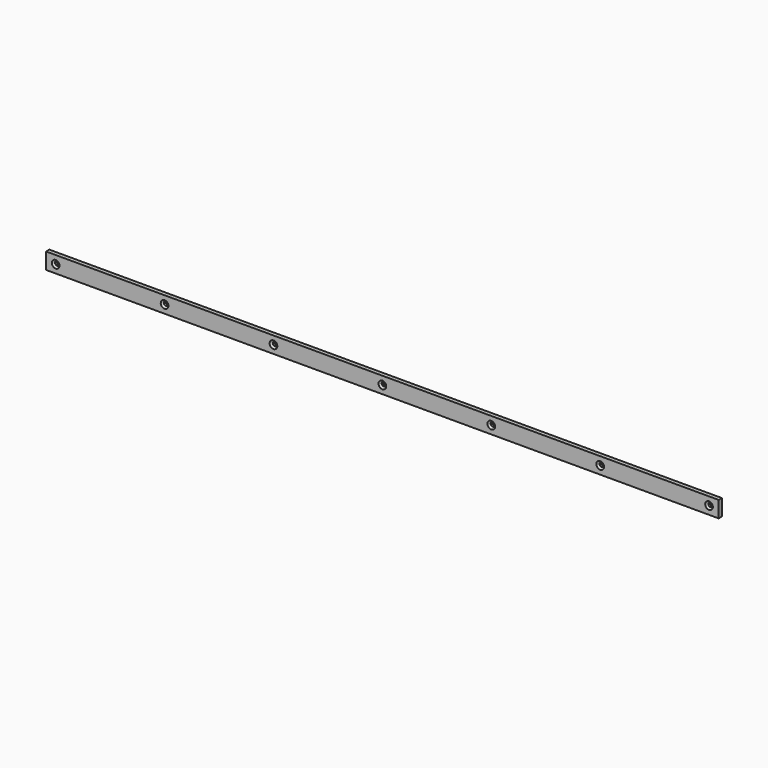
from build123d import *

# Parameters (mm, degrees)
F0_W     = 1050
F0_H     = 25.4
F0_R     = 3.25
F1_DEPTH = 6.35
F2_SIZE  = 2.75
F3_SIZE  = 0.5


with BuildPart() as f1:
    # F0 (on Front) → F1 (new body)
    with BuildSketch(Plane.XZ):
        Rectangle(F0_W, F0_H)
        with Locations((-510, 0)):
            Circle(F0_R, mode=Mode.SUBTRACT)
        with Locations((-340, 0)):
            Circle(F0_R, mode=Mode.SUBTRACT)
        with Locations((-170, 0)):
            Circle(F0_R, mode=Mode.SUBTRACT)
        Circle(F0_R, mode=Mode.SUBTRACT)
        with Locations((170, 0)):
            Circle(F0_R, mode=Mode.SUBTRACT)
        with Locations((340, 0)):
            Circle(F0_R, mode=Mode.SUBTRACT)
        with Locations((510, 0)):
            Circle(F0_R, mode=Mode.SUBTRACT)
    extrude(amount=F1_DEPTH)

    # F2
    f2_edges = [f1.edges().sort_by_distance(p)[0] for p in [
        (-513.25, -6.35, 0),
        (-173.25, -6.35, 0),
        (-343.25, -6.35, 0),
        (-3.25, -6.35, 0),
        (166.75, -6.35, 0),
        (506.75, -6.35, 0),
        (336.75, -6.35, 0),
    ]]
    chamfer(f2_edges, length=F2_SIZE)

    # F3
    f3_edges = [f1.edges().sort_by_distance(p)[0] for p in [
        (-513.25, 0, 0),
        (-343.25, 0, 0),
        (-173.25, 0, 0),
        (-3.25, 0, 0),
        (166.75, 0, 0),
        (336.75, 0, 0),
        (506.75, 0, 0),
    ]]
    chamfer(f3_edges, length=F3_SIZE)


solid = f1.part
